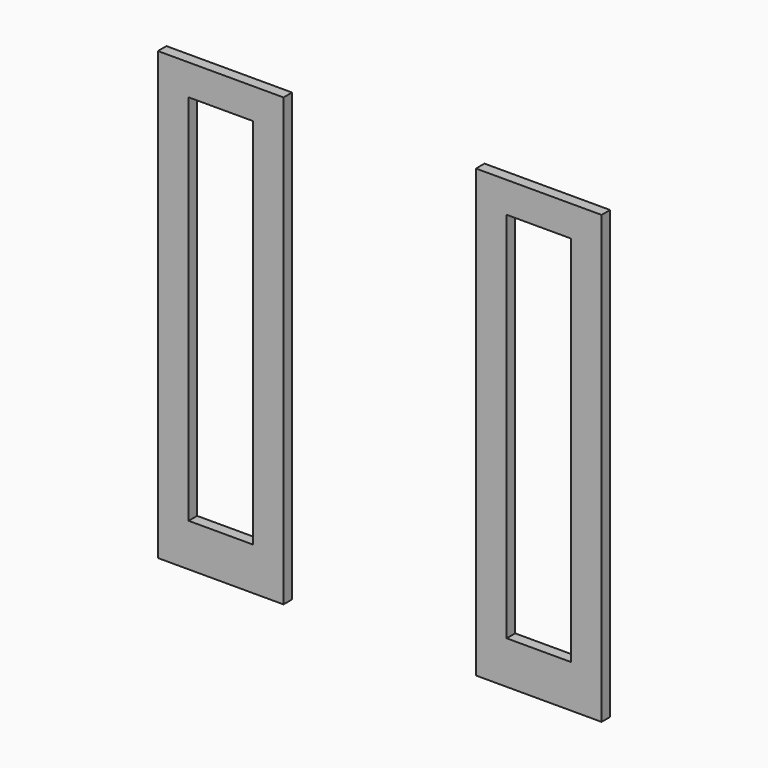
from build123d import *

# Parameters (mm, degrees)
F0_W     = 2108.2
F0_H     = 2120.9
F1_DEPTH = 50.8
F2_W     = 914.4
F2_H     = 2120.9
F3_DEPTH = 12.7
F4_R     = 25.4
F5_DEPTH = 38.101
F6_W     = 304.8
F6_H     = 1771.65
F7_DEPTH = 50.801
F8_DEPTH = 50.801


with BuildPart() as f1:
    # F0 (on Front) → F1 (new body)
    with BuildSketch(Plane.XZ):
        Rectangle(F0_W, F0_H)
    extrude(amount=F1_DEPTH)

    # F2 (on face) → F3 (cut)
    with BuildSketch(Plane.XZ.offset(50.8)):
        Rectangle(F2_W, F2_H)
    extrude(amount=-F3_DEPTH, mode=Mode.SUBTRACT)

    # F4 (on face) → F5 (cut, through all)
    with BuildSketch(Plane.XZ.offset(38.1)):
        with Locations((406.4, 0)):
            Circle(F4_R)
    extrude(amount=-F5_DEPTH, mode=Mode.SUBTRACT)

    # F6 (on face) → F7 (cut, through all)
    with BuildSketch(Plane.XZ.offset(50.8)):
        with Locations((-755.65, 28.575)):
            Rectangle(F6_W, F6_H)
        with Locations((755.65, 28.575)):
            Rectangle(F6_W, F6_H)
    extrude(amount=-F7_DEPTH, mode=Mode.SUBTRACT)

    # F2 (on face) → F8 (cut, through all)
    with BuildSketch(Plane.XZ.offset(50.8)):
        Rectangle(F2_W, F2_H)
    extrude(amount=-F8_DEPTH, mode=Mode.SUBTRACT)


solid = f1.part
